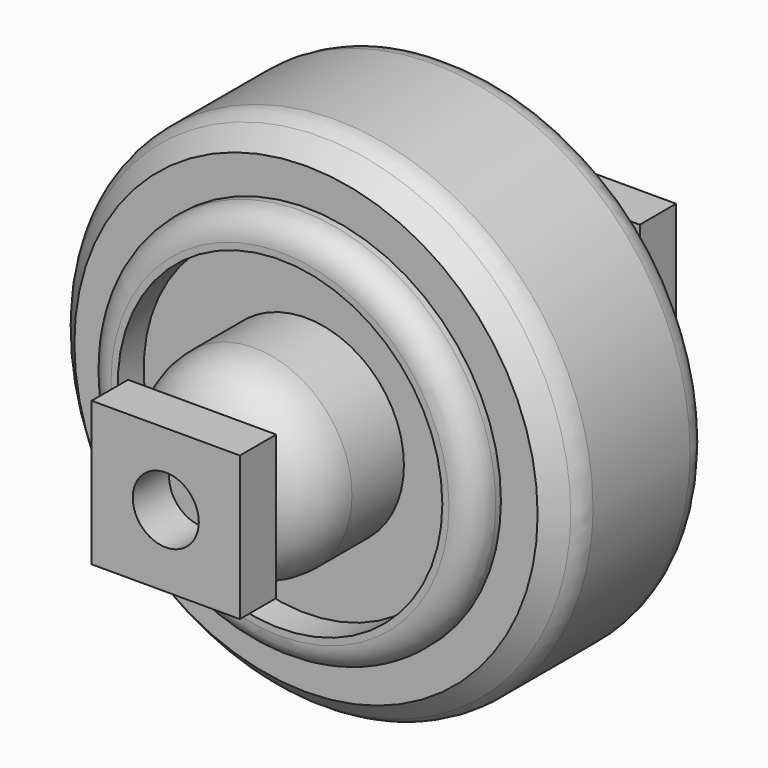
from build123d import *

# Parameters (mm, degrees)
F0_R      = 50.398116
F1_DEPTH  = 38.1
F2_SIZE   = 5.08
F3_SIZE   = 5.08
F4_R      = 19.1599
F5_DEPTH  = 25.4
F6_R      = 19.091437
F7_DEPTH  = 25.4
F8_R      = 12.7
F9_R      = 12.7
F10_W     = 28.995078
F10_H     = 28.174462
F10_R     = 6.4599
F11_DEPTH = 8.89
F12_W     = 28.995078
F12_H     = 28.174462
F12_R     = 6.391437
F13_DEPTH = 8.89
F14_R     = 38.141945
F14_R_2   = 31.754329
F15_DEPTH = 6.35
F16_R     = 38.100899
F16_R_2   = 31.739767
F17_DEPTH = 6.35
F18_R     = 5.08
F19_R     = 5.08
F20_R     = 5.08


with BuildPart() as f1:
    # F0 (on Front) → F1 (new body)
    with BuildSketch(Plane.XZ):
        Circle(F0_R)
    extrude(amount=F1_DEPTH)

    # F2
    f2_edges = [f1.edges().sort_by_distance(p)[0] for p in [
        (-50.398116, -38.1, 0),
    ]]
    chamfer(f2_edges, length=F2_SIZE)

    # F3
    f3_edges = [f1.edges().sort_by_distance(p)[0] for p in [
        (-50.398116, 0, 0),
    ]]
    chamfer(f3_edges, length=F3_SIZE)

    # F4 (on face) → F5 (join)
    with BuildSketch(Plane.XZ.offset(38.1)):
        Circle(F4_R)
    extrude(amount=F5_DEPTH)

    # F6 (on face) → F7 (join)
    with BuildSketch(Plane(origin=(0, 0, 0), x_dir=(-1, 0, 0), z_dir=(0, 1, 0))):
        Circle(F6_R)
    extrude(amount=F7_DEPTH)

    # F8
    f8_edges = [f1.edges().sort_by_distance(p)[0] for p in [
        (19.091437, 25.4, 0),
    ]]
    fillet(f8_edges, radius=F8_R)

    # F9
    f9_edges = [f1.edges().sort_by_distance(p)[0] for p in [
        (-19.1599, -63.5, 0),
    ]]
    fillet(f9_edges, radius=F9_R)

    # F14 (on face) → F15 (join)
    with BuildSketch(Plane.XZ.offset(38.1)):
        Circle(F14_R)
        Circle(F14_R_2, mode=Mode.SUBTRACT)
    extrude(amount=F15_DEPTH)

    # F16 (on face) → F17 (join)
    with BuildSketch(Plane(origin=(0, 0, 0), x_dir=(-1, 0, 0), z_dir=(0, 1, 0))):
        Circle(F16_R)
        Circle(F16_R_2, mode=Mode.SUBTRACT)
    extrude(amount=F17_DEPTH)

    # F18
    f18_edges = [f1.edges().sort_by_distance(p)[0] for p in [
        (-38.141945, -44.45, 0),
    ]]
    fillet(f18_edges, radius=F18_R)

    # F19
    f19_edges = [f1.edges().sort_by_distance(p)[0] for p in [
        (38.100899, 6.35, 0),
    ]]
    fillet(f19_edges, radius=F19_R)

    # F20
    f20_edges = [f1.edges().sort_by_distance(p)[0] for p in [
        (50.398116, -19.05, 0),
        (-50.398116, -5.08, 0),
        (-50.398116, -33.02, 0),
    ]]
    fillet(f20_edges, radius=F20_R)


with BuildPart() as f11:
    # F10 (on face) → F11 (new body)
    with BuildSketch(Plane.XZ.offset(63.5)):
        Rectangle(F10_W, F10_H)
        Circle(F10_R, mode=Mode.SUBTRACT)
    extrude(amount=F11_DEPTH)


with BuildPart() as f13:
    # F12 (on face) → F13 (new body)
    with BuildSketch(Plane(origin=(0, 25.4, 0), x_dir=(-1, 0, 0), z_dir=(0, 1, 0))):
        Rectangle(F12_W, F12_H)
        Circle(F12_R, mode=Mode.SUBTRACT)
    extrude(amount=F13_DEPTH)


solid = Compound([f1.part, f11.part, f13.part])
